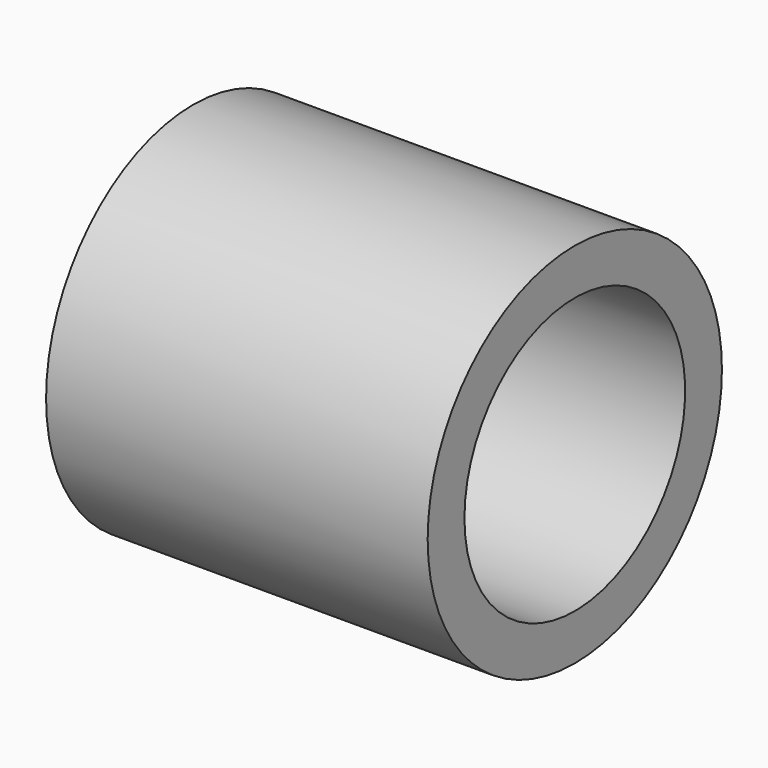
from build123d import *

# Parameters (mm, degrees)
F0_R     = 4
F1_DEPTH = 8.3
F2_D     = 6


with BuildPart() as f1:
    # F0 (on Right) → F1 (new body)
    with BuildSketch(Plane.YZ):
        Circle(F0_R)
    extrude(amount=F1_DEPTH)

    # F2 (through all)
    with Locations(Plane(origin=(0, 0, 0), x_dir=(0, 1, 0), z_dir=(-1, 0, 0))):
        with Locations((0, 0)):
            Hole(F2_D / 2)


solid = f1.part
